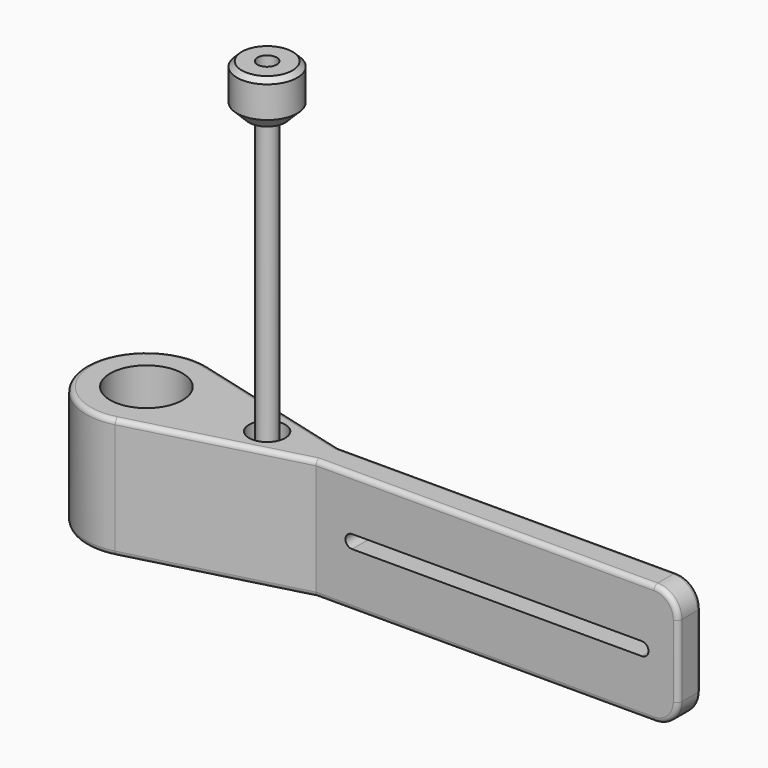
from build123d import *

# Parameters (mm, degrees)
F0_R      = 15
F1_DEPTH  = 50
F3_DEPTH  = 25
F4_R      = 7.5
F5_DEPTH  = 15
F6_R      = 7.5
F7_DEPTH  = 8
F8_R      = 10
F9_R      = 2
F10_DEPTH = 25
F11_R     = 7.5
F12_DEPTH = 10
F13_R     = 4
F14_DEPTH = 150
F15_R     = 12.5
F15_R_2   = 4
F16_DEPTH = 20
F17_SIZE  = 2
F18_SIZE  = 5


with BuildPart() as f1:
    # F0 (on Top) → F1 (new body)
    with BuildSketch(Plane.XY):
        with BuildLine():
            Line((225, 6), (75, 6))
            Line((75, 6), (6.3999793324, 24.1669250122))
            ThreePointArc((6.3999793324, 24.1669250122), (-25, 0), (6.3999793324, -24.1669250122))
            Line((6.3999793324, -24.1669250122), (75, -6))
            Line((75, -6), (225, -6))
            Line((225, -6), (225, 0))
            Line((225, 0), (225, 6))
        make_face()
        Circle(F0_R, mode=Mode.SUBTRACT)
        with BuildLine():
            ThreePointArc((54, 0), (50, -4), (46, 0))
            ThreePointArc((46, 0), (50, 4), (54, 0))
        make_face(mode=Mode.SUBTRACT)
    extrude(amount=F1_DEPTH)

    # F2 (on face) → F3 (cut)
    with BuildSketch(Plane.XZ.offset(6)):
        with BuildLine():
            ThreePointArc((90, 28), (87.25, 25.25), (90, 22.5))
            Line((90, 22.5), (150, 22.5))
            Line((150, 22.5), (210, 22.5))
            ThreePointArc((210, 22.5), (212.75, 25.25), (210, 28))
            Line((210, 28), (90, 28))
        make_face()
    extrude(amount=-F3_DEPTH, mode=Mode.SUBTRACT)

    # F4 (on face) → F5 (cut)
    with BuildSketch(Plane(origin=(0, 0, 0), x_dir=(1, 0, 0), z_dir=(0, 0, -1))):
        with Locations((50, 0)):
            Circle(F4_R)
    extrude(amount=-F5_DEPTH, mode=Mode.SUBTRACT)

    # F6 (on face) → F7 (cut)
    with BuildSketch(Plane.XY.offset(50)):
        with Locations((50, 0)):
            Circle(F6_R)
    extrude(amount=-F7_DEPTH, mode=Mode.SUBTRACT)

    # F8
    f8_edges = [f1.edges().sort_by_distance(p)[0] for p in [
        (225, 0, 50),
        (225, 0, 0),
    ]]
    fillet(f8_edges, radius=F8_R)

    # F9
    f9_edges = [f1.edges().sort_by_distance(p)[0] for p in [
        (145, 6, 50),
        (145, -6, 50),
        (40.69999, 15.083463, 50),
        (40.69999, 15.083463, 0),
    ]]
    fillet(f9_edges, radius=F9_R)

    # F2 (on face) → F10 (cut)
    with BuildSketch(Plane.XZ.offset(6)):
        with BuildLine():
            ThreePointArc((90, 28), (87.25, 25.25), (90, 22.5))
            Line((90, 22.5), (150, 22.5))
            Line((150, 22.5), (210, 22.5))
            ThreePointArc((210, 22.5), (212.75, 25.25), (210, 28))
            Line((210, 28), (90, 28))
        make_face()
    extrude(amount=-F10_DEPTH, mode=Mode.SUBTRACT)


with BuildPart() as f12:
    # F11 (on face) → F12 (new body)
    with BuildSketch(Plane(origin=(0, 0, 15), x_dir=(1, 0, 0), z_dir=(0, 0, -1))):
        with Locations((50, 0)):
            Circle(F11_R)
    extrude(amount=F12_DEPTH)

    # F13 (on face) → F14 (join)
    with BuildSketch(Plane.XY.offset(15)):
        with Locations((50, 0)):
            Circle(F13_R)
    extrude(amount=F14_DEPTH)


with BuildPart() as f16:
    # F15 (on face) → F16 (new body)
    with BuildSketch(Plane.XY.offset(165)):
        with Locations((50, 0)):
            Circle(F15_R)
        with Locations((50, 0)):
            Circle(F15_R_2, mode=Mode.SUBTRACT)
    extrude(amount=F16_DEPTH)

    # F17
    f17_edges = [f16.edges().sort_by_distance(p)[0] for p in [
        (37.5, 0, 185),
    ]]
    chamfer(f17_edges, length=F17_SIZE)

    # F18
    f18_edges = [f16.edges().sort_by_distance(p)[0] for p in [
        (37.5, 0, 165),
    ]]
    chamfer(f18_edges, length=F18_SIZE)


solid = Compound([f1.part, f12.part, f16.part])
